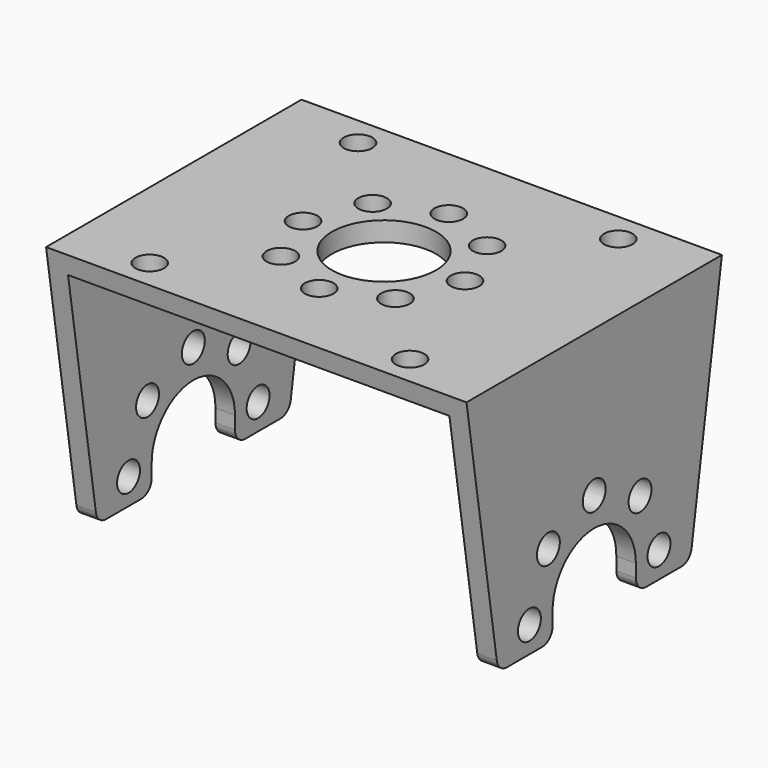
from build123d import *

# Parameters (mm, degrees)
F1_DEPTH = 25
F2_R     = 1.1
F3_DEPTH = 32.301
F4_R     = 1.1
F4_R_2   = 4
F5_DEPTH = 1.5
F6_R     = 1


with BuildPart() as f1:
    # F0 (on Front) → F1 (new body)
    with BuildSketch(Plane.XZ):
        Polygon((0, 19.5), (0, 0), (1.5, 0), (1.5, 18), (30.8, 18), (30.8, 0), (32.3, 0), (32.3, 19.5), align=None)
    extrude(amount=F1_DEPTH)

    # F2 (on face) → F3 (cut, through all)
    with BuildSketch(Plane(origin=(0, 0, 0), x_dir=(0, -1, 0), z_dir=(-1, 0, 0))):
        with BuildLine():
            Line((16.5, 0), (16.5, 2))
            ThreePointArc((16.5, 2), (12.5, 6), (8.5, 2))
            Line((8.5, 2), (8.5, 0))
            Line((8.5, 0), (16.5, 0))
        make_face()
        with Locations((18.7225396744, 2)):
            Circle(F2_R)
        with Locations((16.9, 6.4)):
            Circle(F2_R)
        with Locations((12.5, 8.2225396744)):
            Circle(F2_R)
        with Locations((8.1, 6.4)):
            Circle(F2_R)
        with Locations((6.2774603256, 2)):
            Circle(F2_R)
        Polygon((0, 0), (3.2774603256, 0), (0, 21), align=None)
        Polygon((21.7225396744, 0), (25, 0), (25, 21), align=None)
    extrude(amount=-F3_DEPTH, mode=Mode.SUBTRACT)

    # F4 (on face) → F5 (cut, through all)
    with BuildSketch(Plane.XY.offset(19.5)):
        with Locations((6.15, -2.5)):
            Circle(F4_R)
        with Locations((26.15, -2.5)):
            Circle(F4_R)
        with Locations((6.15, -22.5)):
            Circle(F4_R)
        with Locations((26.15, -22.5)):
            Circle(F4_R)
        with Locations((16.15, -12.5)):
            Circle(F4_R_2)
        with Locations((11.75, -8.1)):
            Circle(F4_R)
        with Locations((9.9274603256, -12.5)):
            Circle(F4_R)
        with Locations((11.75, -16.9)):
            Circle(F4_R)
        with Locations((16.15, -18.7225396744)):
            Circle(F4_R)
        with Locations((20.55, -16.9)):
            Circle(F4_R)
        with Locations((22.3725396744, -12.5)):
            Circle(F4_R)
        with Locations((20.55, -8.1)):
            Circle(F4_R)
        with Locations((16.15, -6.2774603256)):
            Circle(F4_R)
    extrude(amount=-F5_DEPTH, mode=Mode.SUBTRACT)

    # F6
    f6_edges = [f1.edges().sort_by_distance(p)[0] for p in [
        (31.55, -3.27746, 0),
        (0.75, -3.27746, 0),
        (0.75, -8.5, 0),
        (31.55, -8.5, 0),
        (0.75, -16.5, 0),
        (31.55, -16.5, 0),
        (0.75, -21.72254, 0),
        (31.55, -21.72254, 0),
    ]]
    fillet(f6_edges, radius=F6_R)


solid = f1.part
